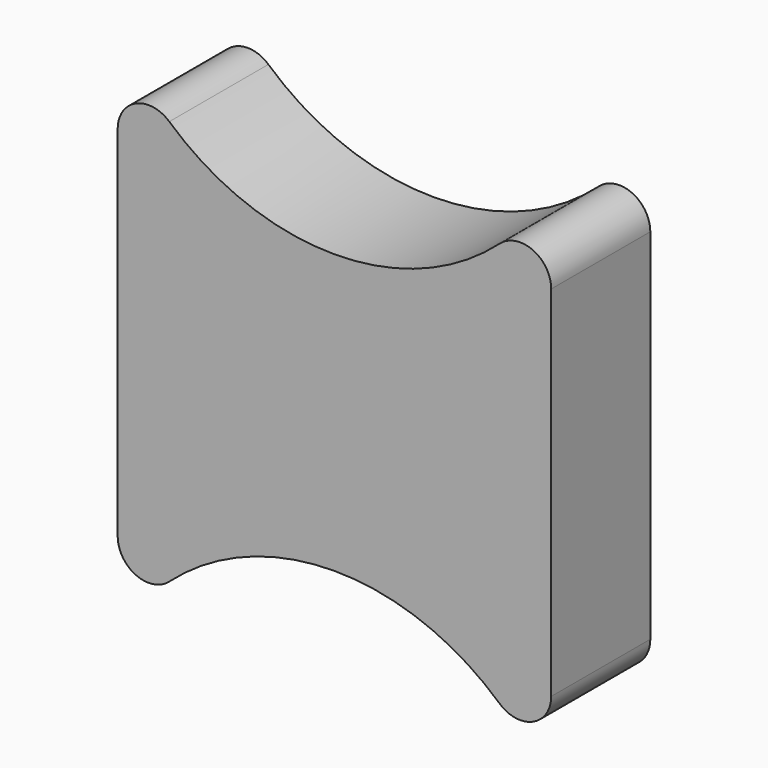
from build123d import *

# Parameters (mm, degrees)
F1_DEPTH = 4
F2_R     = 1


with BuildPart() as f1:
    # F0 (on Front) → F1 (new body)
    with BuildSketch(Plane.XZ):
        with BuildLine():
            ThreePointArc((7, 8.627017), (0, 4.5), (-7, 8.627017))
            Line((-7, 8.627017), (-7, -8.627017))
            ThreePointArc((-7, -8.627017), (0, -4.5), (7, -8.627017))
            Line((7, -8.627017), (7, 8.627017))
        make_face()
    extrude(amount=F1_DEPTH)

    # F2
    f2_edges = [f1.edges().sort_by_distance(p)[0] for p in [
        (-7, -2, -8.627017),
        (7, -2, -8.627017),
        (-7, -2, 8.627017),
        (7, -2, 8.627017),
    ]]
    fillet(f2_edges, radius=F2_R)


solid = f1.part
